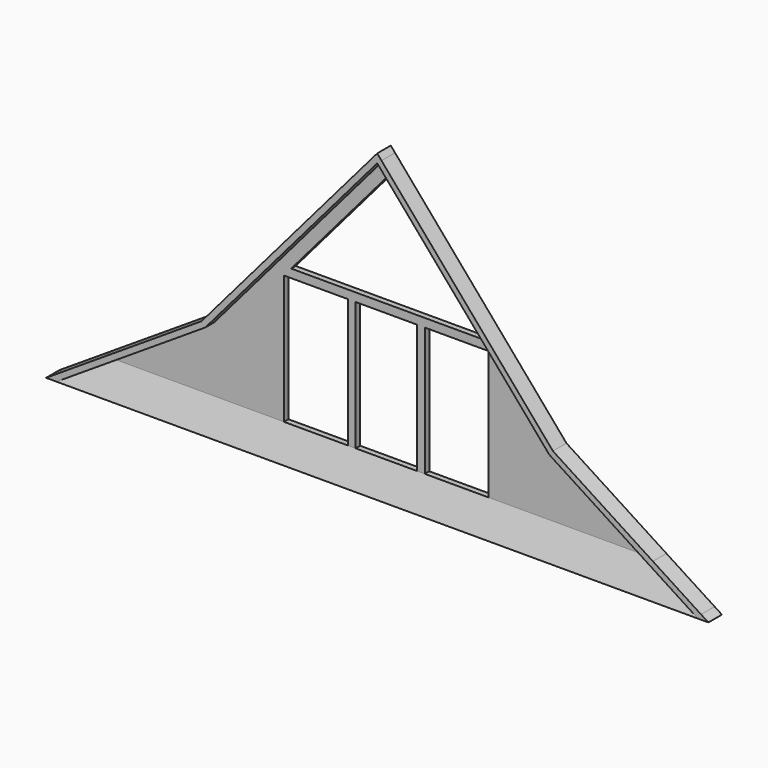
from build123d import *

# Parameters (mm, degrees)
F0_W     = 140
F0_H     = 2280
F1_DEPTH = 100
F2_DEPTH = 300
F4_DEPTH = 6500
F6_DEPTH = 300


with BuildPart() as f1:
    # F0 (on Front) → F1 (new body)
    with BuildSketch(Plane.XZ):
        Polygon((-4825, 0), (-4030, 0), (-1811.566155, 0), (-1811.566155, 2280), (-681.566155, 2280), (-541.566155, 2280), (541.566155, 2280), (681.566155, 2280), (1811.566155, 2280), (1811.566155, 0), (4030, 0), (4825, 0), (3043.93617, 1150), (0, 4700), (-3043.93617, 1150), align=None)
        Polygon((1682.949134, 2430), (-1682.949134, 2430), (0, 4392.744647), align=None, mode=Mode.SUBTRACT)
        with Locations((-611.566155, 1140)):
            Rectangle(F0_W, F0_H)
        with Locations((611.566155, 1140)):
            Rectangle(F0_W, F0_H)
    extrude(amount=F1_DEPTH)

    # F0 (on Front) → F2 (join)
    with BuildSketch(Plane.XZ):
        Polygon((-1811.566155, 0), (-4030, 0), (-4825, 0), (-5676.813136, -550), (5676.813136, -550), (4825, 0), (4030, 0), (1811.566155, 0), (681.566155, 0), (541.566155, 0), (-541.566155, 0), (-681.566155, 0), align=None)
    extrude(amount=F2_DEPTH)

    # F3 (on Right) → F4 (cut, symmetric)
    with BuildSketch(Plane.YZ):
        Polygon((-100, 0), (-300, 0), (-300, -550), align=None)
    extrude(amount=F4_DEPTH, both=True, mode=Mode.SUBTRACT)

    # F5 (on Front) → F6 (join)
    with BuildSketch(Plane.XZ):
        Polygon((-3043.93617, 1150), (0, 4700), (3043.93617, 1150), (4825, 0), (5676.813136, -550), (5861.166876, -550), (5731.056679, -465.99025), (4879.243543, 84.00975), (3110.389804, 1226.125919), (75.944979, 4765.056609), (0, 4853.627676), (-75.914258, 4765.092438), (-3110.389804, 1226.125919), (-4879.243543, 84.00975), (-5730.845054, -465.853608), (-5861.166876, -550), (-5676.813136, -550), (-4825, 0), align=None)
    extrude(amount=F6_DEPTH)


solid = f1.part
